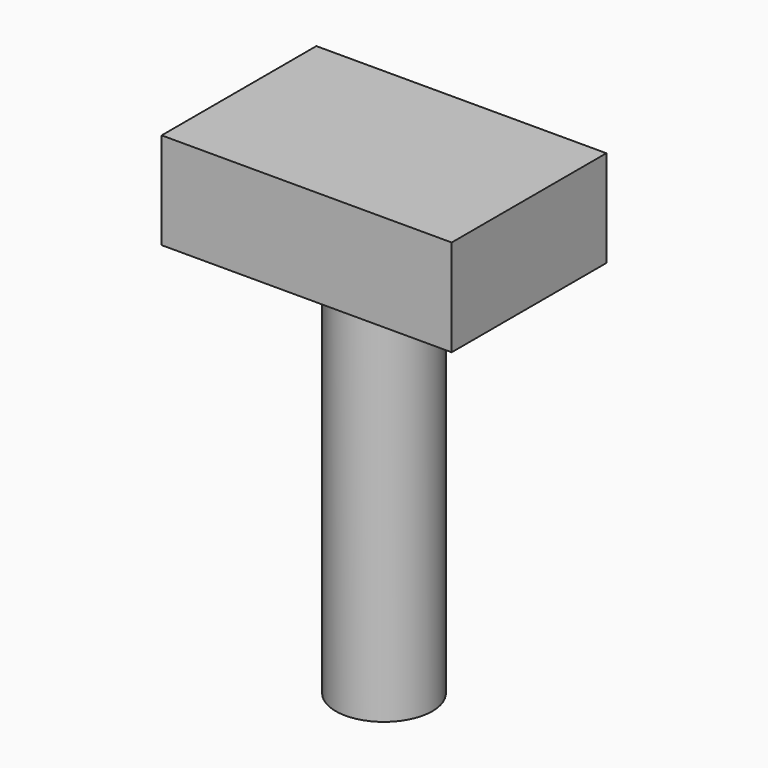
from build123d import *

# Parameters (mm, degrees)
F0_W     = 76.2
F0_H     = 50.8
F1_DEPTH = 25.4
F2_R     = 12.7
F3_DEPTH = 101.6


with BuildPart() as f1:
    # F0 (on Top) → F1 (new body)
    with BuildSketch(Plane.XY):
        Rectangle(F0_W, F0_H)
    extrude(amount=F1_DEPTH)

    # F2 (on face) → F3 (join)
    with BuildSketch(Plane(origin=(0, 0, 0), x_dir=(1, 0, 0), z_dir=(0, 0, -1))):
        Circle(F2_R)
    extrude(amount=F3_DEPTH)


solid = f1.part
